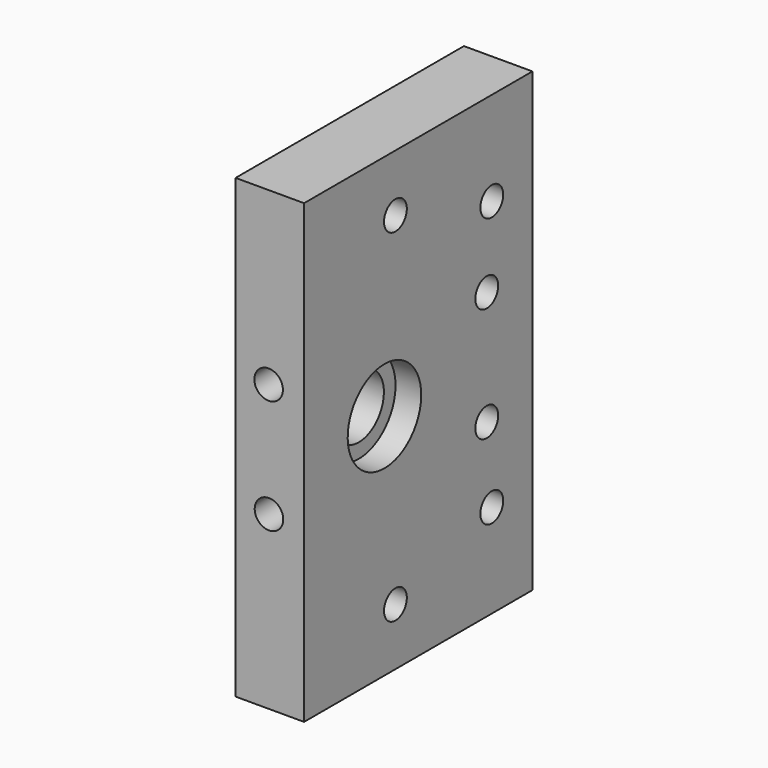
from build123d import *

# Parameters (mm, degrees)
SKETCH010_W     = 80
SKETCH010_H     = 50
SKETCH010_R     = 2.5
SKETCH010_R_2   = 5.5
PAD002_DEPTH    = 12
SKETCH011_R     = 2.5
POCKET006_DEPTH = 11
SKETCH012_R     = 8.05
POCKET007_DEPTH = 4.5
SKETCH013_R     = 4.6
SKETCH013_R_2   = 4.624594
SKETCH013_R_3   = 4.583454
SKETCH013_R_4   = 4.624604
POCKET008_DEPTH = 1.55


with BuildPart() as part:
    # Sketch010 → Pad002 (new body)
    with BuildSketch(Plane(origin=(-89, -48, 73), x_dir=(0, 0, 1), z_dir=(1, 0, 0))):
        with Locations((40, 25)):
            Rectangle(SKETCH010_W, SKETCH010_H)
        with Locations((10, 30)):
            Circle(SKETCH010_R, mode=Mode.SUBTRACT)
        with Locations((30, 10)):
            Circle(SKETCH010_R, mode=Mode.SUBTRACT)
        with Locations((16.4, 8.9)):
            Circle(SKETCH010_R, mode=Mode.SUBTRACT)
        with Locations((50, 10)):
            Circle(SKETCH010_R, mode=Mode.SUBTRACT)
        with Locations((63.6, 8.9)):
            Circle(SKETCH010_R, mode=Mode.SUBTRACT)
        with Locations((70, 30)):
            Circle(SKETCH010_R, mode=Mode.SUBTRACT)
        with Locations((40, 32.4)):
            Circle(SKETCH010_R_2, mode=Mode.SUBTRACT)
    extrude(amount=PAD002_DEPTH)

    # Sketch011 → Pocket006 (cut)
    with BuildSketch(Plane(origin=(-89, -98, 73), x_dir=(0, 0, -1), z_dir=(0, -1, 0))):
        with Locations((-30.033846, 5.850095)):
            Circle(SKETCH011_R)
        with Locations((-50.003807, 5.788844)):
            Circle(SKETCH011_R)
    extrude(amount=-POCKET006_DEPTH, mode=Mode.SUBTRACT)

    # Sketch012 → Pocket007 (cut)
    with BuildSketch(Plane(origin=(-77, -48, 73), x_dir=(0, 0, 1), z_dir=(1, 0, 0))):
        with Locations((40, 32.4)):
            Circle(SKETCH012_R)
    extrude(amount=-POCKET007_DEPTH, mode=Mode.SUBTRACT)

    # Sketch013 → Pocket008 (cut)
    with BuildSketch(Plane(origin=(-89, -48, 73), x_dir=(0, 0, 1), z_dir=(-1, 0, 0))):
        with Locations((10, -30)):
            Circle(SKETCH013_R)
        with Locations((70, -30)):
            Circle(SKETCH013_R_2)
        with Locations((30, -10)):
            Circle(SKETCH013_R_3)
        with Locations((50, -10)):
            Circle(SKETCH013_R_4)
    extrude(amount=-POCKET008_DEPTH, mode=Mode.SUBTRACT)


solid = part.part
